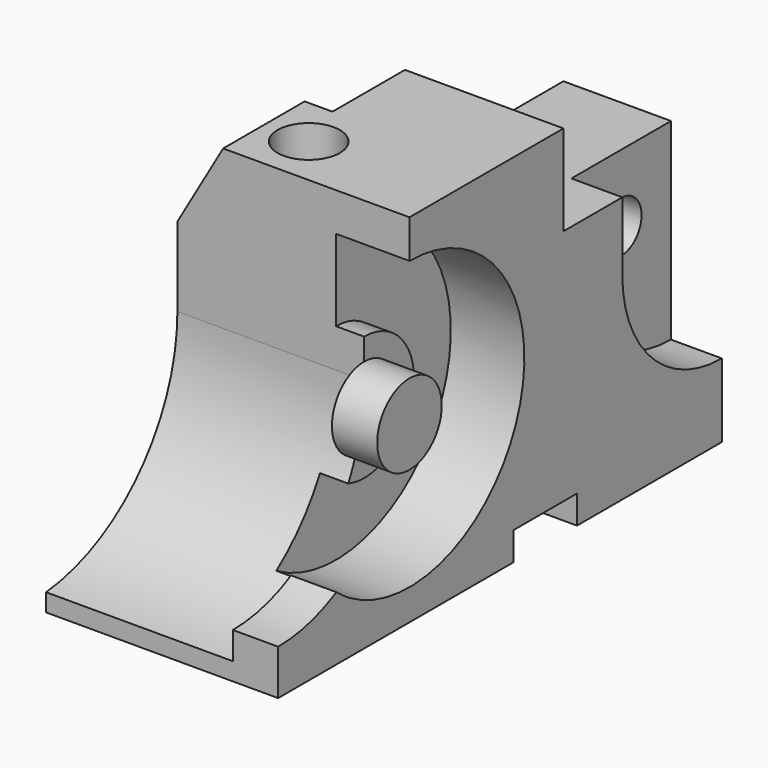
from build123d import *

# Parameters (mm, degrees)
F0_W      = 41
F0_H      = 98
F1_DEPTH  = 63
F3_DEPTH  = 9
F5_DEPTH  = 16
F7_DEPTH  = 98.001
F9_W      = 13
F9_H      = 51
F10_DEPTH = 63.001
F11_R     = 25.375
F12_DEPTH = 13
F13_R     = 11
F14_DEPTH = 5
F18_DEPTH = 41.001
F15_R     = 7.125
F19_DEPTH = 8
F22_DEPTH = 8
F23_W     = 14
F23_H     = 5
F24_DEPTH = 41.001
F25_R     = 4.5
F26_DEPTH = 32.001
F27_R     = 5.5
F28_DEPTH = 63.001


with BuildPart() as f1:
    # F0 (on Top) → F1 (new body)
    with BuildSketch(Plane.XY):
        Rectangle(F0_W, F0_H)
    extrude(amount=F1_DEPTH)

    # F2 (on face) → F3 (cut)
    with BuildSketch(Plane.YZ.offset(20.5)):
        with BuildLine():
            Line((27, 63), (27, 35))
            ThreePointArc((27, 35), (33.4436508139, 19.4436508139), (49, 13))
            Line((49, 13), (49, 63))
            Line((49, 63), (27, 63))
        make_face()
    extrude(amount=-F3_DEPTH, mode=Mode.SUBTRACT)

    # F4 (on face) → F5 (cut)
    with BuildSketch(Plane.XY.offset(63)):
        Polygon((11.5, 49), (-20.5, 49), (-20.5, 14), (20.5, 14), (20.5, 27), (11.5, 27), align=None)
    extrude(amount=-F5_DEPTH, mode=Mode.SUBTRACT)

    # F6 (on face) → F7 (cut, through all)
    with BuildSketch(Plane.XZ.offset(49)):
        Polygon((-20.5, 63), (-20.5, 49), (-12.4170962313, 63), align=None)
    extrude(amount=-F7_DEPTH, mode=Mode.SUBTRACT)

    # F9 (on offset) → F10 (cut, through all)
    with BuildSketch(Plane.XY.offset(63)):
        with Locations((-14, 23.5)):
            Rectangle(F9_W, F9_H)
    extrude(amount=-F10_DEPTH, mode=Mode.SUBTRACT)

    # F11 (on face) → F12 (cut)
    with BuildSketch(Plane.YZ.offset(20.5)):
        with Locations((-20, 30.8340992779)):
            Circle(F11_R)
    extrude(amount=-F12_DEPTH, mode=Mode.SUBTRACT)

    # F13 (on face) → F14 (join)
    with BuildSketch(Plane.YZ.offset(7.5)):
        with Locations((-20, 30.8340992779)):
            Circle(F13_R)
    extrude(amount=F14_DEPTH)

    # F17 (on offset) → F18 (cut, through all)
    with BuildSketch(Plane(origin=(-20.5, 0, 0), x_dir=(0, -1, 0), z_dir=(-1, 0, 0))):
        with BuildLine():
            Line((20, 63), (20, 35))
            ThreePointArc((20, 35), (68.2520480507, 7.4342434503), (67.4919333848, 63))
            Line((67.4919333848, 63), (20, 63))
        make_face()
    extrude(amount=-F18_DEPTH, mode=Mode.SUBTRACT)

    # F15 (on face) → F19 (join)
    with BuildSketch(Plane.YZ.offset(12.5)):
        with Locations((-20, 30.8340992779)):
            Circle(F15_R)
    extrude(amount=F19_DEPTH)

    # F21 (on offset) → F22 (join)
    with BuildSketch(Plane.YZ.offset(20.5)):
        with BuildLine():
            ThreePointArc((-36.1440872593, 11.2570956367), (-42.3689524888, 8.8269373419), (-49, 8))
            Line((-49, 8), (-49, 0))
            Line((-49, 0), (-33.1566682197, 0))
            Line((-33.1566682197, 0), (-33.1566682197, 9.1363411827))
            ThreePointArc((-33.1566682197, 9.1363411827), (-34.6887020452, 10.1427325461), (-36.1440872593, 11.2570956367))
        make_face()
    extrude(amount=-F22_DEPTH)

    # F23 (on face) → F24 (cut, through all)
    with BuildSketch(Plane.YZ.offset(20.5)):
        with Locations((10, 2.5)):
            Rectangle(F23_W, F23_H)
    extrude(amount=-F24_DEPTH, mode=Mode.SUBTRACT)

    # F25 (on face) → F26 (cut, through all)
    with BuildSketch(Plane.YZ.offset(11.5)):
        with Locations((38, 35)):
            Circle(F25_R)
    extrude(amount=-F26_DEPTH, mode=Mode.SUBTRACT)

    # F27 (on face) → F28 (cut, through all)
    with BuildSketch(Plane.XY.offset(63)):
        with Locations((-4.5, -11)):
            Circle(F27_R)
    extrude(amount=-F28_DEPTH, mode=Mode.SUBTRACT)


solid = f1.part
